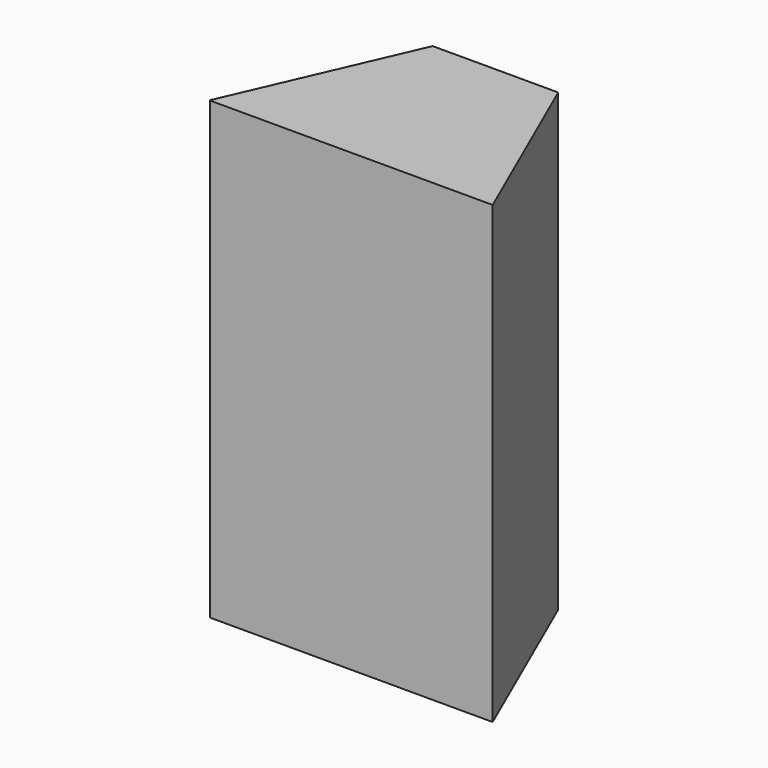
from build123d import *

# Parameters (mm, degrees)
BOX039_W           = 3.6
BOX039_H           = 2.3
BOX039_DEPTH       = 5.8
CHAMFER034_1_SIZE2 = 1
CHAMFER034_1_SIZE  = 2.29
CHAMFER034_2_SIZE2 = 1
CHAMFER034_2_SIZE  = 2.29


with BuildPart() as part:
    # Box039 → Box039 (new body)
    with BuildSketch(Plane(origin=(53.2, 17.7, 24.2), x_dir=(1, 0, 0), z_dir=(0, 0, 1))):
        with Locations((1.8, 1.15)):
            Rectangle(BOX039_W, BOX039_H)
    extrude(amount=BOX039_DEPTH)

    # Chamfer034 1
    chamfer034_1_edges = [part.edges().sort_by_distance(p)[0] for p in [
        (56.8, 20, 27.1),
    ]]
    chamfer034_1_side = part.faces().sort_by_distance((56.8, 18.85, 27.1))[0]
    chamfer(chamfer034_1_edges, length=CHAMFER034_1_SIZE, length2=CHAMFER034_1_SIZE2, reference=chamfer034_1_side)

    # Chamfer034 2
    chamfer034_2_edges = [part.edges().sort_by_distance(p)[0] for p in [
        (53.2, 20, 27.1),
    ]]
    chamfer034_2_side = part.faces().sort_by_distance((53.2, 18.85, 27.1))[0]
    chamfer(chamfer034_2_edges, length=CHAMFER034_2_SIZE, length2=CHAMFER034_2_SIZE2, reference=chamfer034_2_side)


with BuildPart() as part_1:
    # Chamfer034 placement: moved
    add(part.part.moved(Location((80, 0, 0))))


solid = part_1.part
